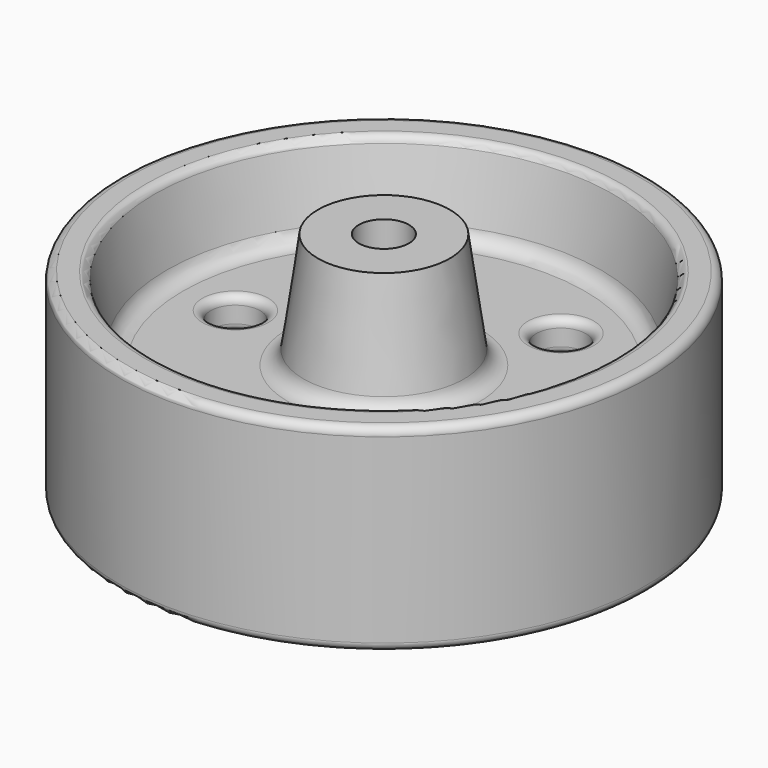
from build123d import *

# Parameters (mm, degrees)
F2_R     = 4.826
F3_DEPTH = 50.801
F4_R     = 4.7625
F5_DEPTH = 28.576
F6_R     = 1.5875
F7_R     = 1.5875


with BuildPart() as f1:
    # F0 (on Front) → F1 (revolve)
    with BuildSketch(Plane.XZ):
        with BuildLine():
            Line((-43.8523547888, 4.2989845335), (-50.2023547888, 4.2989845335))
            Line((-50.2023547888, 4.2989845335), (-50.2023547888, -14.7510154665))
            Line((-50.2023547888, -14.7510154665), (-40.6773547888, -14.7510154665))
            Line((-40.6773547888, -14.7510154665), (-15.2773547888, -14.7510154665))
            Line((-15.2773547888, -14.7510154665), (0.5976452112, -14.7510154665))
            Line((0.5976452112, -14.7510154665), (0.5976452112, 10.6489845335))
            Line((0.5976452112, 10.6489845335), (-12.1023547888, 10.6489845335))
            Line((-12.1023547888, 10.6489845335), (-14.8879280468, -8.8500282725))
            ThreePointArc((-14.8879280468, -8.8500282725), (-15.9507521603, -10.7995817736), (-18.0310176892, -11.5760154665))
            Line((-18.0310176892, -11.5760154665), (-38.0744773976, -11.5760154665))
            ThreePointArc((-38.0744773976, -11.5760154665), (-40.0873921729, -10.8563767652), (-41.187821043, -9.0236841955))
            Line((-41.187821043, -9.0236841955), (-43.8523547888, 4.2989845335))
        make_face()
        with BuildLine():
            Line((-40.6773547888, -14.7510154665), (-50.2023547888, -14.7510154665))
            Line((-50.2023547888, -14.7510154665), (-50.2023547888, -33.8010154665))
            Line((-50.2023547888, -33.8010154665), (-43.8523547888, -33.8010154665))
            Line((-43.8523547888, -33.8010154665), (-41.187821043, -20.4783467374))
            ThreePointArc((-41.187821043, -20.4783467374), (-40.0873921729, -18.6456541677), (-38.0744773976, -17.9260154665))
            Line((-38.0744773976, -17.9260154665), (-18.0310176892, -17.9260154665))
            ThreePointArc((-18.0310176892, -17.9260154665), (-15.9507521603, -18.7024491593), (-14.8879280468, -20.6520026604))
            Line((-14.8879280468, -20.6520026604), (-12.1023547888, -40.1510154665))
            Line((-12.1023547888, -40.1510154665), (0.5976452112, -40.1510154665))
            Line((0.5976452112, -40.1510154665), (0.5976452112, -14.7510154665))
            Line((0.5976452112, -14.7510154665), (-15.2773547888, -14.7510154665))
            Line((-15.2773547888, -14.7510154665), (-40.6773547888, -14.7510154665))
        make_face()
        with BuildLine():
            Line((-43.8523547888, 4.2989845335), (-50.2023547888, 4.2989845335))
            Line((-50.2023547888, 4.2989845335), (-50.2023547888, -14.7510154665))
            Line((-50.2023547888, -14.7510154665), (-40.6773547888, -14.7510154665))
            Line((-40.6773547888, -14.7510154665), (-15.2773547888, -14.7510154665))
            Line((-15.2773547888, -14.7510154665), (0.5976452112, -14.7510154665))
            Line((0.5976452112, -14.7510154665), (0.5976452112, 10.6489845335))
            Line((0.5976452112, 10.6489845335), (-12.1023547888, 10.6489845335))
            Line((-12.1023547888, 10.6489845335), (-14.8879280468, -8.8500282725))
            ThreePointArc((-14.8879280468, -8.8500282725), (-15.9507521603, -10.7995817736), (-18.0310176892, -11.5760154665))
            Line((-18.0310176892, -11.5760154665), (-38.0744773976, -11.5760154665))
            ThreePointArc((-38.0744773976, -11.5760154665), (-40.0873921729, -10.8563767652), (-41.187821043, -9.0236841955))
            Line((-41.187821043, -9.0236841955), (-43.8523547888, 4.2989845335))
        make_face()
    revolve(axis=Axis((0.5976452112, 0, -2.0510154665), (0, 0, 1)))

    # F2 (on face) → F3 (cut, through all)
    with BuildSketch(Plane.XY.offset(10.6489845335)):
        with Locations((0.5976452112, 0)):
            Circle(F2_R)
    extrude(amount=-F3_DEPTH, mode=Mode.SUBTRACT)

    # F4 (on face) → F5 (cut, through all)
    with BuildSketch(Plane.XY.offset(-11.5760154665)):
        with Locations((-27.9773547888, 0)):
            Circle(F4_R)
        with Locations((14.8851452112, 24.7466759131)):
            Circle(F4_R)
        with Locations((14.8851452112, -24.7466759131)):
            Circle(F4_R)
    extrude(amount=-F5_DEPTH, mode=Mode.SUBTRACT)

    # F6
    f6_edges = [f1.edges().sort_by_distance(p)[0] for p in [
        (51.397645, 0, 4.298985),
        (51.397645, 0, -33.801015),
        (45.047645, 0, -33.801015),
        (45.047645, 0, 4.298985),
    ]]
    fillet(f6_edges, radius=F6_R)

    # F7
    f7_edges = [f1.edges().sort_by_distance(p)[0] for p in [
        (10.122645, 24.746676, -11.576015),
        (10.122645, -24.746676, -11.576015),
        (-32.739855, 0, -17.926015),
        (10.122645, -24.746676, -17.926015),
        (10.122645, 24.746676, -17.926015),
        (-32.739855, 0, -11.576015),
    ]]
    fillet(f7_edges, radius=F7_R)


solid = f1.part
